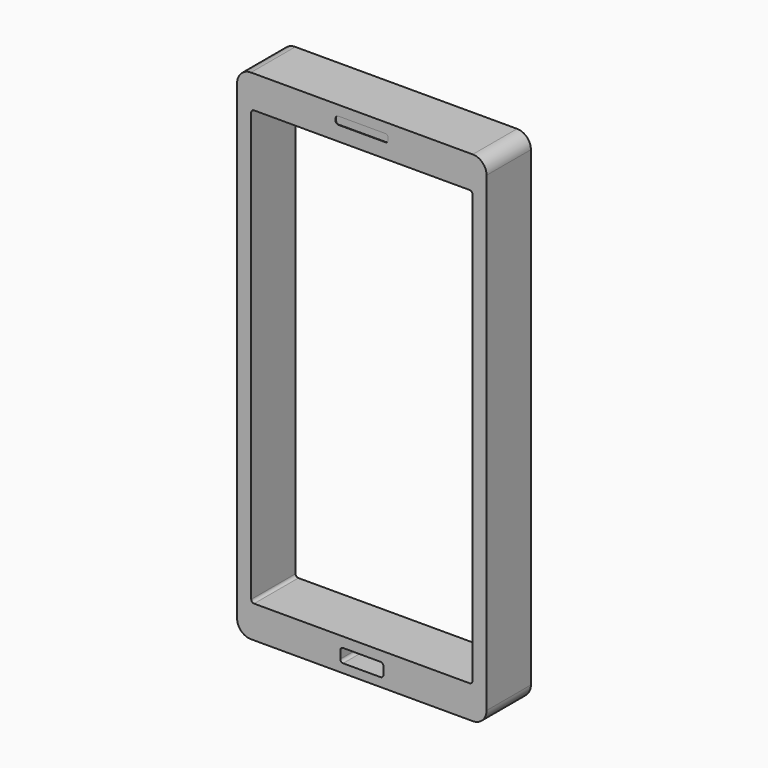
from build123d import *

# Parameters (mm, degrees)
F1_DEPTH = 19.05
F2_W     = 2.54
F2_H     = 12.7
F3_DEPTH = 2.54
F4_DEPTH = 25.4
F5_DEPTH = 25.4
F7_DEPTH = 0.254
F8_R     = 2.995029
F8_R_2   = 1.619254
F9_DEPTH = 0.254


with BuildPart() as f1:
    # F0 (on Front) → F1 (new body)
    with BuildSketch(Plane.XZ):
        with BuildLine():
            Line((50.8, 114.3), (-50.8, 114.3))
            ThreePointArc((-50.8, 114.3), (-55.290128, 112.440128), (-57.15, 107.95))
            Line((-57.15, 107.95), (-57.15, -107.95))
            ThreePointArc((-57.15, -107.95), (-55.290128, -112.440128), (-50.8, -114.3))
            Line((-50.8, -114.3), (50.8, -114.3))
            ThreePointArc((50.8, -114.3), (55.290128, -112.440128), (57.15, -107.95))
            Line((57.15, -107.95), (57.15, 107.95))
            ThreePointArc((57.15, 107.95), (55.290128, 112.440128), (50.8, 114.3))
        make_face()
        with BuildLine():
            ThreePointArc((-9.873155, -105.40096), (-9.492607, -104.482236), (-8.573882, -104.101688))
            Line((-8.573882, -104.101688), (8.573882, -104.101688))
            ThreePointArc((8.573882, -104.101688), (9.492607, -104.482236), (9.873155, -105.40096))
            Line((9.873155, -105.40096), (9.873155, -108.98943))
            ThreePointArc((9.873155, -108.98943), (9.492607, -109.908154), (8.573882, -110.288702))
            Line((8.573882, -110.288702), (-8.573882, -110.288702))
            ThreePointArc((-8.573882, -110.288702), (-9.492607, -109.908154), (-9.873155, -108.98943))
            Line((-9.873155, -108.98943), (-9.873155, -105.40096))
        make_face(mode=Mode.SUBTRACT)
        with BuildLine():
            ThreePointArc((-50.673, 98.178406), (-50.292452, 99.09713), (-49.373728, 99.477679))
            Line((-49.373728, 99.477679), (49.373728, 99.477679))
            ThreePointArc((49.373728, 99.477679), (50.292452, 99.09713), (50.673, 98.178406))
            Line((50.673, 98.178406), (50.673, -98.178406))
            ThreePointArc((50.673, -98.178406), (50.292452, -99.09713), (49.373728, -99.477679))
            Line((49.373728, -99.477679), (-49.373728, -99.477679))
            ThreePointArc((-49.373728, -99.477679), (-50.292452, -99.09713), (-50.673, -98.178406))
            Line((-50.673, -98.178406), (-50.673, 98.178406))
        make_face(mode=Mode.SUBTRACT)
    extrude(amount=F1_DEPTH)

    # F2 (on face) → F3 (join)
    with BuildSketch(Plane(origin=(-57.15, 0, 0), x_dir=(0, -1, 0), z_dir=(-1, 0, 0))):
        with Locations((9.525, 90.329596)):
            Rectangle(F2_W, F2_H)
        with Locations((9.525, 75.089596)):
            Rectangle(F2_W, F2_H)
    extrude(amount=F3_DEPTH)

    # F0 (on Front) → F4 (join)
    with BuildSketch(Plane.XZ):
        with BuildLine():
            Line((50.8, 114.3), (-50.8, 114.3))
            ThreePointArc((-50.8, 114.3), (-55.290128, 112.440128), (-57.15, 107.95))
            Line((-57.15, 107.95), (-57.15, -107.95))
            ThreePointArc((-57.15, -107.95), (-55.290128, -112.440128), (-50.8, -114.3))
            Line((-50.8, -114.3), (50.8, -114.3))
            ThreePointArc((50.8, -114.3), (55.290128, -112.440128), (57.15, -107.95))
            Line((57.15, -107.95), (57.15, 107.95))
            ThreePointArc((57.15, 107.95), (55.290128, 112.440128), (50.8, 114.3))
        make_face()
        with BuildLine():
            ThreePointArc((-9.873155, -105.40096), (-9.492607, -104.482236), (-8.573882, -104.101688))
            Line((-8.573882, -104.101688), (8.573882, -104.101688))
            ThreePointArc((8.573882, -104.101688), (9.492607, -104.482236), (9.873155, -105.40096))
            Line((9.873155, -105.40096), (9.873155, -108.98943))
            ThreePointArc((9.873155, -108.98943), (9.492607, -109.908154), (8.573882, -110.288702))
            Line((8.573882, -110.288702), (-8.573882, -110.288702))
            ThreePointArc((-8.573882, -110.288702), (-9.492607, -109.908154), (-9.873155, -108.98943))
            Line((-9.873155, -108.98943), (-9.873155, -105.40096))
        make_face(mode=Mode.SUBTRACT)
        with BuildLine():
            ThreePointArc((-50.673, 98.178406), (-50.292452, 99.09713), (-49.373728, 99.477679))
            Line((-49.373728, 99.477679), (49.373728, 99.477679))
            ThreePointArc((49.373728, 99.477679), (50.292452, 99.09713), (50.673, 98.178406))
            Line((50.673, 98.178406), (50.673, -98.178406))
            ThreePointArc((50.673, -98.178406), (50.292452, -99.09713), (49.373728, -99.477679))
            Line((49.373728, -99.477679), (-49.373728, -99.477679))
            ThreePointArc((-49.373728, -99.477679), (-50.292452, -99.09713), (-50.673, -98.178406))
            Line((-50.673, -98.178406), (-50.673, 98.178406))
        make_face(mode=Mode.SUBTRACT)
    extrude(amount=F4_DEPTH)

    # F0 (on Front) → F5 (join)
    with BuildSketch(Plane.XZ):
        with BuildLine():
            Line((50.8, 114.3), (-50.8, 114.3))
            ThreePointArc((-50.8, 114.3), (-55.290128, 112.440128), (-57.15, 107.95))
            Line((-57.15, 107.95), (-57.15, -107.95))
            ThreePointArc((-57.15, -107.95), (-55.290128, -112.440128), (-50.8, -114.3))
            Line((-50.8, -114.3), (50.8, -114.3))
            ThreePointArc((50.8, -114.3), (55.290128, -112.440128), (57.15, -107.95))
            Line((57.15, -107.95), (57.15, 107.95))
            ThreePointArc((57.15, 107.95), (55.290128, 112.440128), (50.8, 114.3))
        make_face()
        with BuildLine():
            ThreePointArc((-9.873155, -105.40096), (-9.492607, -104.482236), (-8.573882, -104.101688))
            Line((-8.573882, -104.101688), (8.573882, -104.101688))
            ThreePointArc((8.573882, -104.101688), (9.492607, -104.482236), (9.873155, -105.40096))
            Line((9.873155, -105.40096), (9.873155, -108.98943))
            ThreePointArc((9.873155, -108.98943), (9.492607, -109.908154), (8.573882, -110.288702))
            Line((8.573882, -110.288702), (-8.573882, -110.288702))
            ThreePointArc((-8.573882, -110.288702), (-9.492607, -109.908154), (-9.873155, -108.98943))
            Line((-9.873155, -108.98943), (-9.873155, -105.40096))
        make_face(mode=Mode.SUBTRACT)
        with BuildLine():
            ThreePointArc((-50.673, 98.178406), (-50.292452, 99.09713), (-49.373728, 99.477679))
            Line((-49.373728, 99.477679), (49.373728, 99.477679))
            ThreePointArc((49.373728, 99.477679), (50.292452, 99.09713), (50.673, 98.178406))
            Line((50.673, 98.178406), (50.673, -98.178406))
            ThreePointArc((50.673, -98.178406), (50.292452, -99.09713), (49.373728, -99.477679))
            Line((49.373728, -99.477679), (-49.373728, -99.477679))
            ThreePointArc((-49.373728, -99.477679), (-50.292452, -99.09713), (-50.673, -98.178406))
            Line((-50.673, -98.178406), (-50.673, 98.178406))
        make_face(mode=Mode.SUBTRACT)
    extrude(amount=F5_DEPTH)

    # F6 (on face) → F7 (cut)
    with BuildSketch(Plane.XZ.offset(25.4)):
        with BuildLine():
            ThreePointArc((-12.027082, 107.484314), (-11.646534, 106.565589), (-10.72781, 106.185041))
            Line((-10.72781, 106.185041), (10.72781, 106.185041))
            ThreePointArc((10.72781, 106.185041), (11.646534, 106.565589), (12.027082, 107.484314))
            Line((12.027082, 107.484314), (12.027082, 108.415686))
            ThreePointArc((12.027082, 108.415686), (11.646534, 109.334411), (10.72781, 109.714959))
            Line((10.72781, 109.714959), (-10.72781, 109.714959))
            ThreePointArc((-10.72781, 109.714959), (-11.646534, 109.334411), (-12.027082, 108.415686))
            Line((-12.027082, 108.415686), (-12.027082, 107.484314))
        make_face()
    extrude(amount=-F7_DEPTH, mode=Mode.SUBTRACT)

    # F8 (on face) → F9 (cut)
    with BuildSketch(Plane.XZ):
        with Locations((-40.86072, 110.174194)):
            Circle(F8_R)
        with Locations((-40.86072, 104.160182)):
            Circle(F8_R_2)
    extrude(amount=F9_DEPTH, mode=Mode.SUBTRACT)


solid = f1.part
